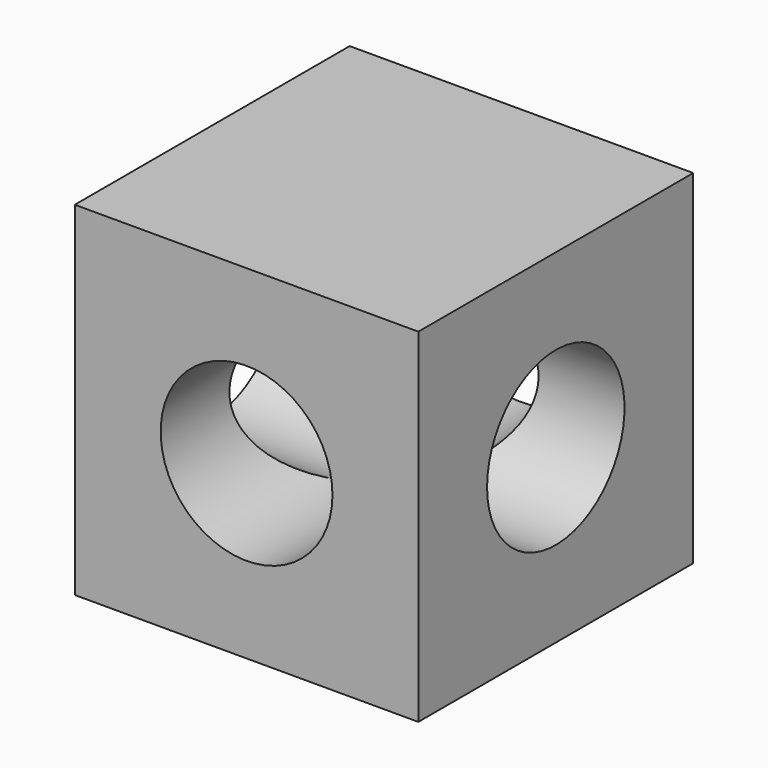
from build123d import *

# Parameters (mm, degrees)
F0_W       = 42.8752
F0_H       = 42.8752
F0_R       = 10.7188
F1_DEPTH   = 42.8752
F2_R       = 10.7188
F1_FACE1_W = 42.8752
F1_FACE1_H = 42.8752
F3_DEPTH   = 42.8762


with BuildPart() as f1:
    # F0 (on Front) → F1 (new body)
    with BuildSketch(Plane.XZ):
        with Locations((21.4376, 21.4376)):
            Rectangle(F0_W, F0_H)
        with Locations((21.4376, 21.4376)):
            Circle(F0_R, mode=Mode.SUBTRACT)
    extrude(amount=F1_DEPTH)

    # F2 (on face) + F1_face1 (on face) → F3 (cut, through all)
    with BuildSketch(Plane(origin=(0, 0, 0), x_dir=(0, -1, 0), z_dir=(-1, 0, 0))):
        with Locations((21.4376, 21.4376)):
            Circle(F2_R)
    with BuildSketch(Plane(origin=(42.8752, -21.4376, 21.4376), x_dir=(0, 1, 0), z_dir=(1, 0, 0))):
        Rectangle(F1_FACE1_W, F1_FACE1_H)
    extrude(amount=-F3_DEPTH, dir=(-1, 0, 0), mode=Mode.SUBTRACT)


solid = f1.part
